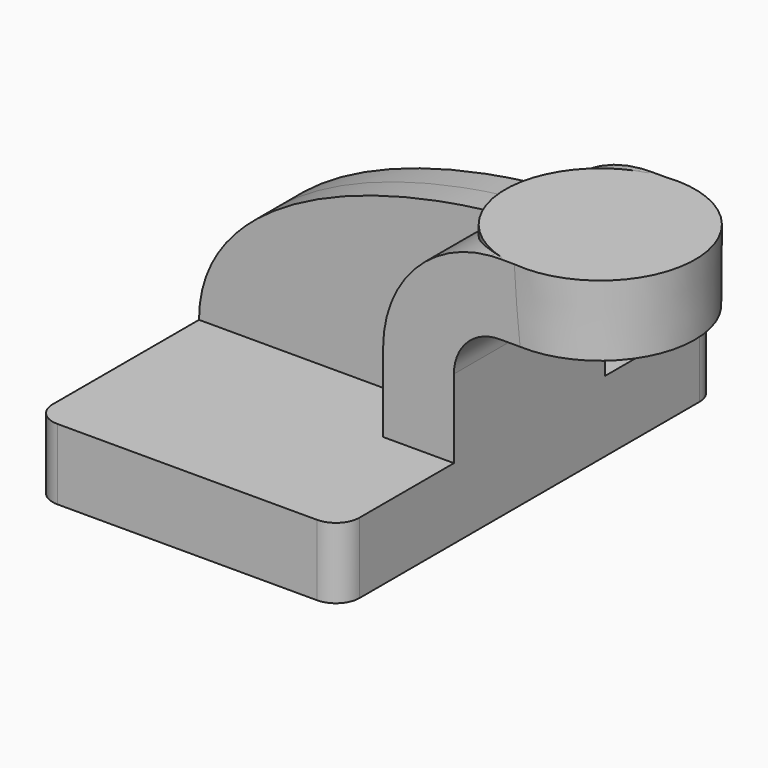
from build123d import *

# Parameters (mm, degrees)
F1_DEPTH = 63.5
F2_DEPTH = 25.4
F3_DEPTH = 7.9375
F5_R     = 6.35


with BuildPart() as f1:
    # F0 (on Front) → F1 (new body, symmetric)
    with BuildSketch(Plane.XZ):
        Polygon((-41.275, 9.525), (-41.275, -9.525), (41.275, -9.525), (41.275, 9.525), (22.225, 9.525), align=None)
    extrude(amount=F1_DEPTH, both=True)

    # F0 (on Front) → F2 (join, symmetric)
    with BuildSketch(Plane.XZ):
        with BuildLine():
            Line((22.225, 9.525), (41.275, 9.525))
            Line((41.275, 9.525), (41.275, 30.6455698351))
            ThreePointArc((41.275, 30.6455698351), (44.8569757439, 39.2932242561), (53.5046301649, 42.8752))
            Line((53.5046301649, 42.8752), (60.325, 42.8752))
            Line((60.325, 42.8752), (60.325, 61.9252))
            Line((60.325, 61.9252), (53.5046301649, 61.9252))
            add(Edge.make_bspline(
                [(51.2267353125, 61.8421475047), (51.9857307237, 61.8741703131), (52.7450911942, 61.9018592787), (53.5046301649, 61.9252)],
                knots=[106.5779912672, 106.5779912672, 106.5779912672, 106.5779912672, 108.3003197328, 108.3003197328, 108.3003197328, 108.3003197328], degree=3))
            ThreePointArc((51.2267353125, 61.8421475047), (30.595385614, 51.943029246), (22.225, 30.6455698351))
            Line((22.225, 30.6455698351), (22.225, 9.525))
        make_face()
    extrude(amount=F2_DEPTH, both=True)

    # F0 (on Front) → F3 (join, symmetric)
    with BuildSketch(Plane.XZ):
        with BuildLine():
            add(Edge.make_bspline(
                [(-41.275, 9.525), (-41.3089372245, 41.2840319087), (4.2599645019, 59.8605704357), (51.2267353125, 61.8421475047)],
                knots=[0, 0, 0, 0, 106.5779912672, 106.5779912672, 106.5779912672, 106.5779912672], degree=3))
            Line((-41.275, 9.525), (22.225, 9.525))
            Line((22.225, 9.525), (22.225, 30.6455698351))
            ThreePointArc((22.225, 30.6455698351), (30.595385614, 51.943029246), (51.2267353125, 61.8421475047))
        make_face()
    extrude(amount=F3_DEPTH, both=True)

    # F0 (on Front) → F4 (revolve)
    with BuildSketch(Plane.XZ):
        Polygon((85.8790065383, 61.9252), (60.325, 61.9252), (60.325, 42.8752), (85.7558669821, 42.8752), align=None)
    revolve(axis=Axis((60.325, 0, 52.3875), (0, 0, 1)))

    # F5
    f5_edges = [f1.edges().sort_by_distance(p)[0] for p in [
        (-41.275, -63.5, 0),
        (41.275, -63.5, 0),
        (41.275, 63.5, 0),
        (-41.275, 63.5, 0),
    ]]
    fillet(f5_edges, radius=F5_R)


solid = f1.part
